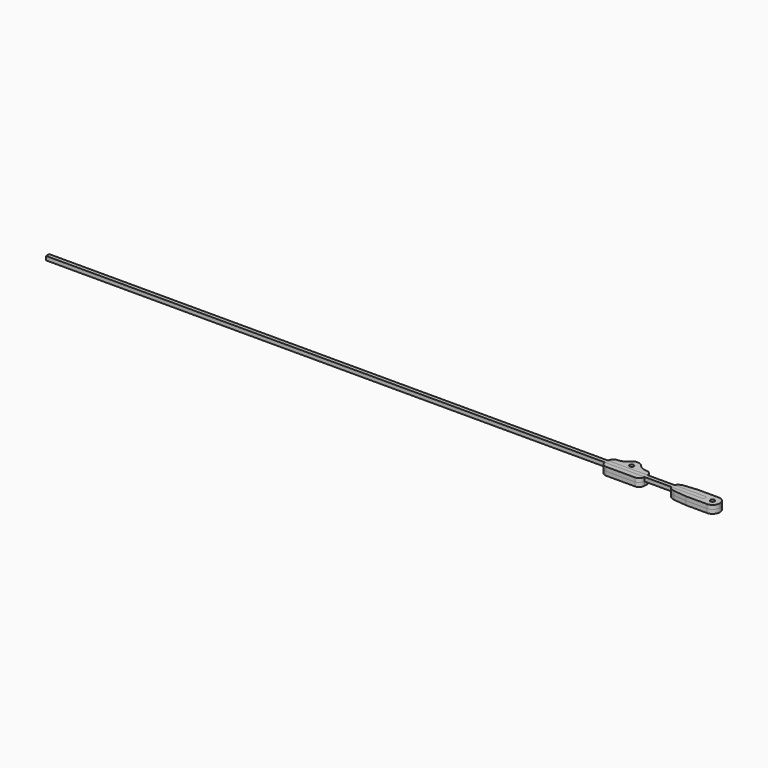
from build123d import *

# Parameters (mm, degrees)
F0_W      = 500
F0_H      = 3
F1_DEPTH  = 3
F3_DEPTH  = 3
F4_R      = 1.6
F5_DEPTH  = 3
F6_R      = 1.6
F7_DEPTH  = 3
F8_R      = 1.6
F9_DEPTH  = 3
F11_DEPTH = 3


with BuildPart() as f1:
    # F0 (on Top) → F1 (new body)
    with BuildSketch(Plane.XY):
        with Locations((-250, 1.5)):
            Rectangle(F0_W, F0_H)
    extrude(amount=F1_DEPTH)


with BuildPart() as f3:
    # F2 (on Top) → F3 (new body, through all)
    with BuildSketch(Plane.XY):
        with BuildLine():
            Line((0, 3), (0, 0))
            Line((0, 0), (-24.6306787322, 0))
            ThreePointArc((-24.6306787322, 0), (-22.678597813, -2.0607110548), (-20, -3))
            Line((-20, -3), (-10, -4))
            Line((-10, -4), (0, -4))
            Line((0, -4), (5.7, -4))
            ThreePointArc((5.7, -4), (9.5890872965, -2.3890872965), (11.2, 1.5))
            ThreePointArc((11.2, 1.5), (9.5890872965, 5.3890872965), (5.7, 7))
            Line((5.7, 7), (0, 7))
            Line((0, 7), (-10, 7))
            Line((-10, 7), (-20, 6))
            ThreePointArc((-20, 6), (-22.678597813, 5.0607110548), (-24.6306787322, 3))
            Line((-24.6306787322, 3), (0, 3))
        make_face()
        with BuildLine():
            ThreePointArc((7.2, 1.5), (5.6, -0.1), (4, 1.5))
            ThreePointArc((4, 1.5), (5.6, 3.1), (7.2, 1.5))
        make_face(mode=Mode.SUBTRACT)
    extrude(amount=F3_DEPTH)


with BuildPart() as f5:
    # F4 (on face) → F5 (new body)
    with BuildSketch(Plane(origin=(0, 0, 0), x_dir=(1, 0, 0), z_dir=(0, 0, -1))):
        with BuildLine():
            Line((5.7, 4), (-10, 4))
            Line((-10, 4), (-20, 3))
            ThreePointArc((-20, 3), (-22.678597813, 2.0607110548), (-24.6306787322, 0))
            Line((-24.6306787322, 0), (-24.6306787322, -3))
            ThreePointArc((-24.6306787322, -3), (-22.678597813, -5.0607110548), (-20, -6))
            Line((-20, -6), (-10, -7))
            Line((-10, -7), (5.7, -7))
            ThreePointArc((5.7, -7), (11.2, -1.5), (5.7, 4))
        make_face()
        with Locations((5.6, -1.5)):
            Circle(F4_R, mode=Mode.SUBTRACT)
    extrude(amount=F5_DEPTH)


with BuildPart() as f7:
    # F6 (on face) → F7 (new body, through all)
    with BuildSketch(Plane.XY.offset(3)):
        with BuildLine():
            Line((-75, 3), (-60, 3))
            Line((-60, 3), (-45, 3))
            ThreePointArc((-45, 3), (-46.1715728753, 5.8284271247), (-49, 7))
            ThreePointArc((-49, 7), (-52.6902586151, 7.8282990834), (-55.6725209403, 10.1542826263))
            ThreePointArc((-55.6725209403, 10.1542826263), (-57.6066741454, 11.6628046924), (-60, 12.2))
            ThreePointArc((-60, 12.2), (-62.3933258546, 11.6628046924), (-64.3274790597, 10.1542826263))
            ThreePointArc((-64.3274790597, 10.1542826263), (-67.3097413849, 7.8282990834), (-71, 7))
            ThreePointArc((-71, 7), (-73.8284271247, 5.8284271247), (-75, 3))
        make_face()
        with Locations((-60, 6.6)):
            Circle(F6_R, mode=Mode.SUBTRACT)
    extrude(amount=-F7_DEPTH)


with BuildPart() as f9:
    # F8 (on face) → F9 (new body)
    with BuildSketch(Plane(origin=(0, 0, 0), x_dir=(1, 0, 0), z_dir=(0, 0, -1))):
        with BuildLine():
            Line((-75, 0), (-75, -3))
            ThreePointArc((-75, -3), (-73.8284271247, -5.8284271247), (-71, -7))
            ThreePointArc((-71, -7), (-67.3097413849, -7.8282990834), (-64.3274790597, -10.1542826263))
            ThreePointArc((-64.3274790597, -10.1542826263), (-60, -12.2), (-55.6725209403, -10.1542826263))
            ThreePointArc((-55.6725209403, -10.1542826263), (-52.6902586151, -7.8282990834), (-49, -7))
            ThreePointArc((-49, -7), (-46.1715728753, -5.8284271247), (-45, -3))
            Line((-45, -3), (-45, 0))
            ThreePointArc((-45, 0), (-46.1715728753, 2.8284271247), (-49, 4))
            Line((-49, 4), (-71, 4))
            ThreePointArc((-71, 4), (-73.8284271247, 2.8284271247), (-75, 0))
        make_face()
        with Locations((-60, -6.6)):
            Circle(F8_R, mode=Mode.SUBTRACT)
    extrude(amount=F9_DEPTH)


with BuildPart() as f11:
    # F10 (on face) → F11 (new body, through all)
    with BuildSketch(Plane.XY):
        with BuildLine():
            ThreePointArc((-49, -4), (-46.1715728753, -2.8284271247), (-45, 0))
            Line((-45, 0), (-75, 0))
            ThreePointArc((-75, 0), (-73.8284271247, -2.8284271247), (-71, -4))
            Line((-71, -4), (-49, -4))
        make_face()
    extrude(amount=F11_DEPTH)


solid = Compound([f1.part, f3.part, f5.part, f7.part, f9.part, f11.part])
